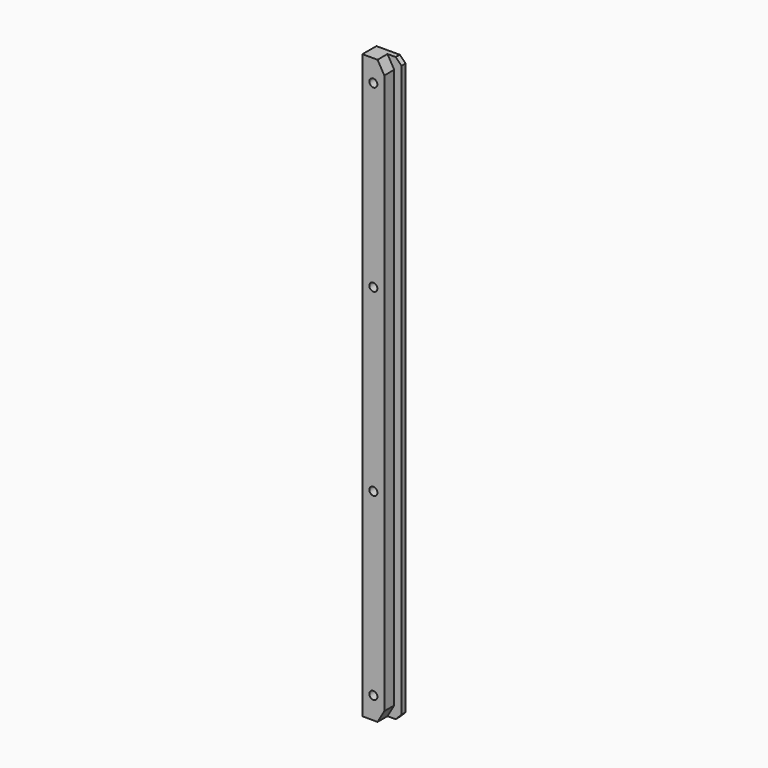
from build123d import *

# Parameters (mm, degrees)
F1_DEPTH       = 400
F3_SIZE        = 4
F5_DEPTH       = 8.5
F6_D           = 5.5
F6_CBORE_D     = 10
F6_CBORE_DEPTH = 5


with BuildPart() as f1:
    # F0 (on Top) → F1 (new body)
    with BuildSketch(Plane.XY):
        Polygon((4.216131, -6.269906), (-15.783869, -6.269906), (-15.783869, -18.269906), (-0.783869, -18.269906), (-0.783869, -9.769906), (4.216131, -9.769906), align=None)
    extrude(amount=F1_DEPTH)

    # F3
    f3_edges = [f1.edges().sort_by_distance(p)[0] for p in [
        (4.216131, -8.019906, 400),
        (4.216131, -8.019906, 0),
    ]]
    chamfer(f3_edges, length=F3_SIZE)

    # F4 (on face) → F5 (cut)
    with BuildSketch(Plane.XZ.offset(18.269906)):
        Polygon((-0.783869, 392), (-0.783869, 400), (-5.402671, 400), align=None)
        Polygon((-0.783869, 0), (-0.783869, 8), (-5.402671, 0), align=None)
    extrude(amount=-F5_DEPTH, mode=Mode.SUBTRACT)

    # F6 (through all)
    with Locations(Plane(origin=(0, -6.269906, 0), x_dir=(-1, 0, 0), z_dir=(0, 1, 0))):
        with Locations((8.283869, 15.1), (8.283869, 138.4), (8.283869, 261.7), (8.283869, 385)):
            CounterBoreHole(F6_D / 2, F6_CBORE_D / 2, F6_CBORE_DEPTH)


solid = f1.part
